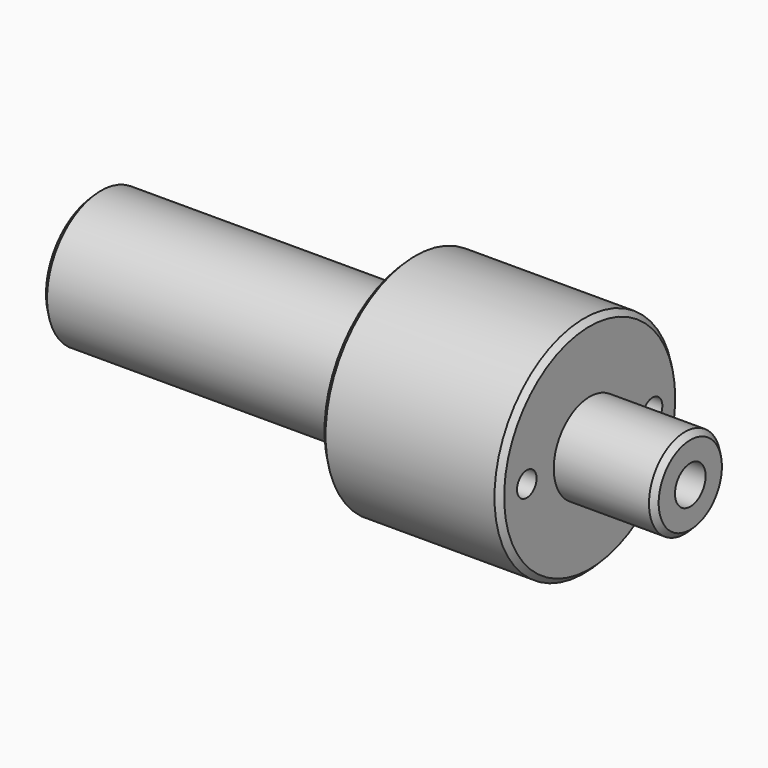
from build123d import *

# Parameters (mm, degrees)
F3_D     = 5.4102
F3_DEPTH = 25.4
F3_TIP   = 1.6253880605
F5_D     = 3.4544
F5_DEPTH = 15.875
F5_TIP   = 1.0378064612
F6_SIZE  = 0.762


with BuildPart() as f1:
    # F0 (on Top) → F1 (revolve)
    with BuildSketch(Plane.XY):
        Polygon((-84.074, 0), (0, 0), (0, 6.35), (-14.224, 6.35), (-14.224, 15.875), (-39.624, 15.875), (-39.624, 9.525), (-84.074, 9.525), align=None)
    revolve(axis=Axis((-42.037, 0, 0), (1, 0, 0)))

    # F3
    with Locations(Plane.YZ):
        with Locations((0, 0)):
            Hole(F3_D / 2, depth=F3_DEPTH)
            with Locations((0, 0, -(F3_DEPTH + F3_TIP / 2))):  # 118° drill point
                Cone(0, F3_D / 2, F3_TIP, mode=Mode.SUBTRACT)

    # F5
    with Locations(Plane.YZ.offset(-14.224)):
        with Locations((-11.1125, 0), (11.1125, 0)):
            Hole(F5_D / 2, depth=F5_DEPTH)
            with Locations((0, 0, -(F5_DEPTH + F5_TIP / 2))):  # 118° drill point
                Cone(0, F5_D / 2, F5_TIP, mode=Mode.SUBTRACT)

    # F6
    f6_edges = [f1.edges().sort_by_distance(p)[0] for p in [
        (0, -6.35, 0),
        (-14.224, -15.875, 0),
        (-39.624, -15.875, 0),
        (-84.074, -9.525, 0),
    ]]
    chamfer(f6_edges, length=F6_SIZE)


solid = f1.part
